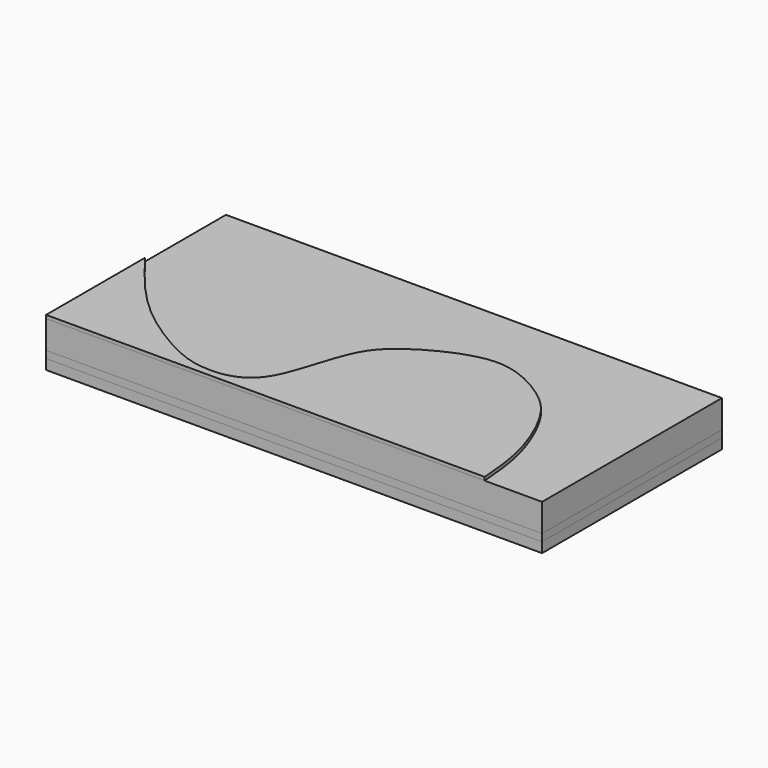
from build123d import *

# Parameters (mm, degrees)
F0_W      = 225.7743701339
F0_H      = 102.3639403284
F1_DEPTH  = 4.572
F2_DEPTH  = 3.302
F4_DEPTH  = 1.778
F6_DEPTH  = 1.524
F8_DEPTH  = 1.524
F10_DEPTH = 2.032
F12_DEPTH = 2.286
F14_DEPTH = 2.032
F16_DEPTH = 1.27
F18_DEPTH = 1.778
F19_DEPTH = 12.7


with BuildPart() as f1:
    # F0 (on Top) → F1 (new body)
    with BuildSketch(Plane.XY):
        with Locations((-9.9827311933, 6.1877723783)):
            Rectangle(F0_W, F0_H)
    extrude(amount=F1_DEPTH)


with BuildPart() as f2:
    # F2 (new): a face of the model
    f2_faces = [f1.part.faces().sort_by_distance(p)[0] for p in [
        (-9.9827311933, 6.1877723783, 4.572),
    ]]
    extrude(f2_faces, amount=F2_DEPTH)


with BuildPart() as f4:
    # F3 (on face) → F4 (new body)
    with BuildSketch(Plane.XY.offset(7.874)):
        with BuildLine():
            Line((-122.8699162602, -44.9941977859), (102.9044538736, -44.9941977859))
            Line((102.9044538736, -44.9941977859), (102.9044538736, -19.5089115048))
            add(Edge.make_bspline(
                [(102.9044538736, -19.5089115048), (102.1812480597, 4.5045019065), (92.8236790882, 57.2765409067), (-25.3444978127, 58.614254318), (-52.8263507974, -18.2499830344), (-98.7995831296, 15.2861642389), (-122.8699162602, 32.8447781503)],
                knots=[0.0678652066, 0.0678652066, 0.0678652066, 0.0678652066, 0.2638789744, 0.5434886666, 0.7609830913, 1, 1, 1, 1], degree=3))
            Line((-122.8699162602, 32.8447781503), (-122.8699162602, -44.9941977859))
        make_face()
    extrude(amount=F4_DEPTH)


with BuildPart() as f6:
    # F5 (on face) → F6 (new body)
    with BuildSketch(Plane.XY.offset(9.652)):
        with BuildLine():
            Line((-122.8699162602, -44.9941977859), (102.9044538736, -44.9941977859))
            add(Edge.make_bspline(
                [(102.9044538736, -44.9941977859), (100.4457821585, -14.8774043592), (96.0736205313, 38.6781344883), (40.7973204242, 54.4030015041), (-10.3044880764, 47.0727645172), (-39.2026420291, 16.6614174954), (-53.157598453, -6.6909166581), (-81.266488115, -1.9259286723), (-107.2706394158, 16.9885983691), (-118.1263369768, 25.6437893446), (-122.8699162602, 29.4258203357)],
                knots=[0, 0, 0, 0, 0.1804361375, 0.3208626641, 0.464890854, 0.5943028599, 0.6936237202, 0.7938357508, 0.9099130704, 1, 1, 1, 1], degree=3))
            Line((-122.8699162602, 29.4258203357), (-122.8699162602, -44.9941977859))
        make_face()
    extrude(amount=F6_DEPTH)


with BuildPart() as f8:
    # F7 (on face) → F8 (new body)
    with BuildSketch(Plane.XY.offset(11.176)):
        with BuildLine():
            Line((-122.8699162602, -44.9941977859), (99.1531535983, -44.9941977859))
            add(Edge.make_bspline(
                [(99.1531535983, -44.9941977859), (98.3462873382, -32.8099007124), (96.6072127286, -6.5485452393), (76.8376882373, 49.8992602273), (5.7046126193, 48.6003790216), (-26.1334547846, 29.7454987309), (-46.6776533703, -0.4204880214), (-65.6622424164, -15.8243684106), (-103.7801961143, 9.2700030071), (-116.9783376211, 21.1378968754), (-122.8699162602, 26.4356601983)],
                knots=[0, 0, 0, 0, 0.126175063, 0.2719507052, 0.4309423817, 0.5547838207, 0.6748832042, 0.7655452181, 0.8953406596, 1, 1, 1, 1], degree=3))
            Line((-122.8699162602, 26.4356601983), (-122.8699162602, -44.9941977859))
        make_face()
    extrude(amount=F8_DEPTH)


with BuildPart() as f10:
    # F9 (on face) → F10 (new body)
    with BuildSketch(Plane.XY.offset(12.7)):
        with BuildLine():
            Line((-122.8699162602, -44.9941977859), (95.2871143818, -44.9941977859))
            add(Edge.make_bspline(
                [(95.2871143818, -44.9941977859), (94.230633051, -32.1910754819), (92.0502690594, -5.7680180775), (70.6944387756, 37.3906945191), (22.8924405273, 48.9204848198), (-17.7564680323, 26.5424362635), (-40.3098158111, 6.823144713), (-50.5798049536, -14.5796887352), (-60.3420585569, -18.9390870067), (-72.6353135009, -19.9494157758), (-90.5346519754, -5.6050874071), (-108.0914940406, 9.9243516189), (-118.1356945889, 18.6663468796), (-122.8699162602, 22.7867886424)],
                knots=[0, 0, 0, 0, 0.1101913973, 0.2274127785, 0.3437239306, 0.4612399009, 0.5583576504, 0.6408177315, 0.6952335429, 0.7534231844, 0.8361786978, 0.9227846601, 1, 1, 1, 1], degree=3))
            Line((-122.8699162602, 22.7867886424), (-122.8699162602, -44.9941977859))
        make_face()
    extrude(amount=F10_DEPTH)


with BuildPart() as f12:
    # F11 (on face) → F12 (new body)
    with BuildSketch(Plane.XY.offset(14.732)):
        with BuildLine():
            Line((-122.8699162602, -44.9941977859), (93.2903140783, -44.9941977859))
            add(Edge.make_bspline(
                [(93.2903140783, -44.9941977859), (92.4922366, -37.1476258303), (90.8148396883, -20.6557238231), (82.6895303539, 8.1813289049), (62.1202602641, 30.5550976504), (39.1969981915, 41.202606034), (20.1499390603, 41.1531335199), (2.2434991578, 34.6004972424), (-7.5130665737, 28.1360225249), (-34.3120085152, 7.3000712942), (-44.280336081, -11.855147704), (-42.6357763632, -26.7425411619), (-56.5243145658, -37.9849299587), (-98.6590515699, -5.0410408762), (-115.1521065603, 12.6080069404), (-122.8699162602, 20.8667553961)],
                knots=[0, 0, 0, 0, 0.077702553, 0.1633149989, 0.2494935267, 0.3273535658, 0.3957556638, 0.4622495003, 0.5174212946, 0.6083672541, 0.6816127701, 0.7391959018, 0.7927527033, 0.9030200774, 1, 1, 1, 1], degree=3))
            Line((-122.8699162602, 20.8667553961), (-122.8699162602, -44.9941977859))
        make_face()
    extrude(amount=F12_DEPTH)


with BuildPart() as f14:
    # F13 (on face) → F14 (new body)
    with BuildSketch(Plane.XY.offset(17.018)):
        with BuildLine():
            Line((-122.8699162602, -44.9941977859), (91.1082550883, -44.9941977859))
            add(Edge.make_bspline(
                [(91.1082550883, -44.9941977859), (90.1666350737, -37.1605463655), (88.4469822688, -22.8541802857), (84.6350548682, -7.4981954526), (79.7234976273, 5.7205284578), (67.5330194837, 22.7822223557), (45.7849410542, 35.4287956259), (20.7529404056, 37.6373923869), (3.1514895376, 33.2378809389), (-22.7449954943, 12.6294423797), (-36.5457150796, -3.6829242816), (-36.0441219029, -32.1155276801), (-41.2805215066, -36.2491560078), (-45.3831391339, -39.3881410702), (-61.7924264411, -38.1014300393), (-84.2919784988, -20.9426246528), (-104.1205073866, -3.0800471644), (-116.5826678738, 11.199184104), (-122.8699162602, 18.4031575918)],
                knots=[0, 0, 0, 0, 0.0673186426, 0.1229420475, 0.17532902, 0.2390934623, 0.3099229356, 0.3792383967, 0.4393323177, 0.5191309405, 0.586117324, 0.6581744592, 0.6914872783, 0.7211779238, 0.7752748257, 0.8507437028, 0.9246991391, 1, 1, 1, 1], degree=3))
            Line((-122.8699162602, 18.4031575918), (-122.8699162602, -44.9941977859))
        make_face()
    extrude(amount=F14_DEPTH)


with BuildPart() as f16:
    # F15 (on face) → F16 (new body)
    with BuildSketch(Plane.XY.offset(19.05)):
        with BuildLine():
            Line((-122.8699162602, -44.9941977859), (86.8907794356, -44.9941977859))
            add(Edge.make_bspline(
                [(86.8907794356, -44.9941977859), (85.8020963771, -37.2910272725), (83.3661533878, -20.0550796201), (68.4910682008, 17.2489691054), (39.0827247662, 31.1270833191), (13.3116135569, 34.9603186092), (-13.3090951214, 17.4578379962), (-28.1355729496, 1.8292398493), (-30.454441934, -23.8765198716), (-35.7647109277, -33.6573939225), (-40.4846303572, -38.3354422119), (-47.791857355, -41.1791668666), (-61.7779634925, -39.4757791326), (-82.0187020894, -27.3035351106), (-101.8899049096, -10.0916177475), (-115.6394877139, 6.252442159), (-122.8699162602, 14.8472161964)],
                knots=[0, 0, 0, 0, 0.0775122101, 0.1734346129, 0.2594317537, 0.3364728531, 0.4212553437, 0.49322341, 0.5700701894, 0.620772085, 0.6589590093, 0.7004365756, 0.7569061944, 0.8315885559, 0.9114382647, 1, 1, 1, 1], degree=3))
            Line((-122.8699162602, 14.8472161964), (-122.8699162602, -44.9941977859))
        make_face()
    extrude(amount=F16_DEPTH)


with BuildPart() as f18:
    # F17 (on face) → F18 (new body)
    with BuildSketch(Plane.XY.offset(20.32)):
        with BuildLine():
            Line((-122.8699162602, -44.9941977859), (76.8093317747, -44.9941977859))
            add(Edge.make_bspline(
                [(76.8093317747, -44.9941977859), (76.1899295315, -37.2040474061), (74.8995818274, -20.975493557), (63.1404192524, 6.3582181477), (50.1309047229, 18.2795927319), (27.0371637019, 30.4297238736), (3.338018857, 20.8972702011), (-8.6854168055, 13.3080260402), (-20.3147793434, 2.7098082623), (-26.9213370581, -26.3419872733), (-34.6748919665, -37.6821695408), (-44.3937249552, -41.8982382847), (-54.1622178305, -41.8143929756), (-65.8469017694, -39.9072973895), (-98.2610902143, -20.8289398151), (-114.4599769931, 0.362581451), (-122.8699162602, 11.3645354286)],
                knots=[0, 0, 0, 0, 0.0783256923, 0.163169214, 0.2300585549, 0.3081478403, 0.3860708494, 0.4454415776, 0.5070634715, 0.5931238889, 0.6513861144, 0.7007684388, 0.7488420823, 0.8021853835, 0.8973010347, 1, 1, 1, 1], degree=3))
            Line((-122.8699162602, 11.3645354286), (-122.8699162602, -44.9941977859))
        make_face()
    extrude(amount=F18_DEPTH)


with BuildPart() as f19:
    # F19 (new): a face of the model
    f19_faces = [f2.part.faces().sort_by_distance(p)[0] for p in [
        (-9.9827311933, 6.1877723783, 7.874),
    ]]
    extrude(f19_faces, amount=F19_DEPTH)


solid = Compound([f1.part, f2.part, f4.part, f6.part, f8.part, f10.part, f12.part, f14.part, f16.part, f18.part, f19.part])
